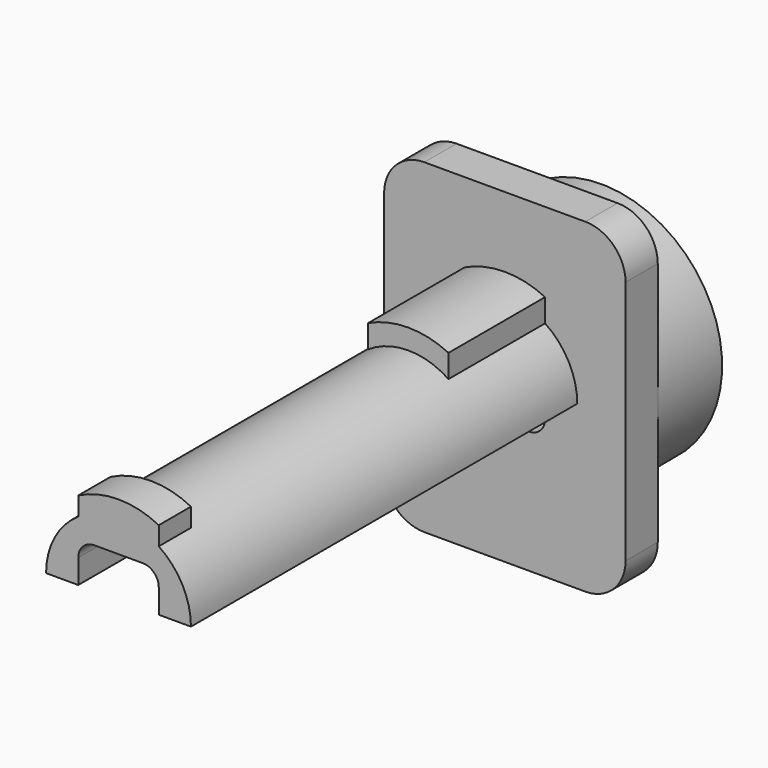
from build123d import *

# Parameters (mm, degrees)
F1_DEPTH = 55
F3_DEPTH = 5
F4_DEPTH = 5
F5_R     = 10
F6_DEPTH = 10
F7_DEPTH = 15


with BuildPart() as f1:
    # F0 (on Front) → F1 (new body)
    with BuildSketch(Plane.XZ):
        with BuildLine():
            Line((5, 0), (9, 0))
            ThreePointArc((9, 0), (7.9372539332, 4.2426406871), (5, 7.4833147735))
            Line((5, 7.4833147735), (5, 3.0001575886))
            Line((5, 3.0001575886), (5, 0))
        make_face()
        with BuildLine():
            Line((5, 3.0001575886), (5, 7.4833147735))
            ThreePointArc((5, 7.4833147735), (0, 9), (-5, 7.4833147735))
            Line((-5, 7.4833147735), (-5, 3.0001575886))
            ThreePointArc((-5, 3.0001575886), (-4.4142135624, 4.414371151), (-3, 5.0001575886))
            Line((-3, 5.0001575886), (3, 5.0001575886))
            ThreePointArc((3, 5.0001575886), (4.4142135624, 4.414371151), (5, 3.0001575886))
        make_face()
        with BuildLine():
            Line((-5, 3.0001575886), (-5, 7.4833147735))
            ThreePointArc((-5, 7.4833147735), (-7.9372539332, 4.2426406871), (-9, 0))
            Line((-9, 0), (-5, 0))
            Line((-5, 0), (-5, 3.0001575886))
        make_face()
        with BuildLine():
            Line((5, 3.0001575886), (5, 7.4833147735))
            ThreePointArc((5, 7.4833147735), (0, 9), (-5, 7.4833147735))
            Line((-5, 7.4833147735), (-5, 3.0001575886))
            ThreePointArc((-5, 3.0001575886), (-4.4142135624, 4.414371151), (-3, 5.0001575886))
            Line((-3, 5.0001575886), (3, 5.0001575886))
            ThreePointArc((3, 5.0001575886), (4.4142135624, 4.414371151), (5, 3.0001575886))
        make_face()
    extrude(amount=F1_DEPTH)

    # F2 (on face) → F3 (join)
    with BuildSketch(Plane.XZ.offset(55)):
        with BuildLine():
            Line((-5, 0), (-5, 3.0001575886))
            Line((-5, 3.0001575886), (-5, 7.4833147735))
            ThreePointArc((-5, 7.4833147735), (-7.9372539332, 4.2426406871), (-9, 0))
            Line((-9, 0), (-5, 0))
        make_face()
        with BuildLine():
            Line((-5, 7.4833147735), (-5, 3.0001575886))
            ThreePointArc((-5, 3.0001575886), (-4.4142135624, 4.414371151), (-3, 5.0001575886))
            Line((-3, 5.0001575886), (3, 5.0001575886))
            ThreePointArc((3, 5.0001575886), (4.4142135624, 4.414371151), (5, 3.0001575886))
            Line((5, 3.0001575886), (5, 7.4833147735))
            ThreePointArc((5, 7.4833147735), (0, 9), (-5, 7.4833147735))
        make_face()
        with BuildLine():
            Line((-5, 9.7981165597), (-5, 7.4833147735))
            ThreePointArc((-5, 7.4833147735), (0, 9), (5, 7.4833147735))
            Line((5, 7.4833147735), (5, 9.7981165597))
            ThreePointArc((5, 9.7981165597), (0, 11.0001403681), (-5, 9.7981165597))
        make_face()
        with BuildLine():
            Line((5, 7.4833147735), (5, 3.0001575886))
            Line((5, 3.0001575886), (5, 0))
            Line((5, 0), (9, 0))
            ThreePointArc((9, 0), (7.9372539332, 4.2426406871), (5, 7.4833147735))
        make_face()
    extrude(amount=F3_DEPTH)



with BuildPart() as f4:
    # F0 (on Front) → F4 (new body)
    with BuildSketch(Plane.XZ):
        with BuildLine():
            Line((-10, -20.2321839634), (10, -20.2321839634))
            ThreePointArc((10, -20.2321839634), (13.5355339059, -18.7677178693), (15, -15.2321839634))
            Line((15, -15.2321839634), (15, 15.2321839634))
            ThreePointArc((15, 15.2321839634), (13.5355339059, 18.7677178693), (10, 20.2321839634))
            Line((10, 20.2321839634), (-10, 20.2321839634))
            ThreePointArc((-10, 20.2321839634), (-13.5355339059, 18.7677178693), (-15, 15.2321839634))
            Line((-15, 15.2321839634), (-15, -15.2321839634))
            ThreePointArc((-15, -15.2321839634), (-13.5355339059, -18.7677178693), (-10, -20.2321839634))
        make_face()
        with BuildLine():
            ThreePointArc((5, 7.4833147735), (7.9372539332, 4.2426406871), (9, 0))
            Line((9, 0), (5, 0))
            Line((5, 0), (5, -3.0001575886))
            ThreePointArc((5, -3.0001575886), (4.4142135624, -4.414371151), (3, -5.0001575886))
            Line((3, -5.0001575886), (-3, -5.0001575886))
            ThreePointArc((-3, -5.0001575886), (-4.4142135624, -4.414371151), (-5, -3.0001575886))
            Line((-5, -3.0001575886), (-5, 0))
            Line((-5, 0), (-9, 0))
            ThreePointArc((-9, 0), (-7.9372539332, 4.2426406871), (-5, 7.4833147735))
            Line((-5, 7.4833147735), (-5, 10.3561575886))
            ThreePointArc((-5, 10.3561575886), (0, 11.5), (5, 10.3561575886))
            Line((5, 10.3561575886), (5, 7.4833147735))
        make_face(mode=Mode.SUBTRACT)
        with BuildLine():
            Line((5, 0), (9, 0))
            ThreePointArc((9, 0), (7.9372539332, 4.2426406871), (5, 7.4833147735))
            Line((5, 7.4833147735), (5, 3.0001575886))
            Line((5, 3.0001575886), (5, 0))
        make_face()
        with BuildLine():
            Line((5, 3.0001575886), (5, 7.4833147735))
            ThreePointArc((5, 7.4833147735), (0, 9), (-5, 7.4833147735))
            Line((-5, 7.4833147735), (-5, 3.0001575886))
            ThreePointArc((-5, 3.0001575886), (-4.4142135624, 4.414371151), (-3, 5.0001575886))
            Line((-3, 5.0001575886), (3, 5.0001575886))
            ThreePointArc((3, 5.0001575886), (4.4142135624, 4.414371151), (5, 3.0001575886))
        make_face()
        with BuildLine():
            Line((-5, 3.0001575886), (-5, 7.4833147735))
            ThreePointArc((-5, 7.4833147735), (-7.9372539332, 4.2426406871), (-9, 0))
            Line((-9, 0), (-5, 0))
            Line((-5, 0), (-5, 3.0001575886))
        make_face()
        with BuildLine():
            ThreePointArc((-5, 7.4833147735), (0, 9), (5, 7.4833147735))
            Line((5, 7.4833147735), (5, 10.3561575886))
            ThreePointArc((5, 10.3561575886), (0, 11.5), (-5, 10.3561575886))
            Line((-5, 10.3561575886), (-5, 7.4833147735))
        make_face()
    extrude(amount=-F4_DEPTH)

    # F5 (on face) → F6 (join)
    with BuildSketch(Plane(origin=(0, 5, 0), x_dir=(-1, 0, 0), z_dir=(0, 1, 0))):
        with BuildLine():
            ThreePointArc((-15, 3.9e-09), (-1.9e-09, -15), (15, 0))
            ThreePointArc((15, 0), (1.9e-09, 15), (-15, 3.9e-09))
        make_face()
        Circle(F5_R, mode=Mode.SUBTRACT)
    extrude(amount=F6_DEPTH)


with BuildPart() as f1_1:
    add(f1.part)

    add(f4.part)  # F7 merges F4
    # F0 (on Front) → F7 (join)
    with BuildSketch(Plane.XZ):
        with BuildLine():
            ThreePointArc((-5, 7.4833147735), (0, 9), (5, 7.4833147735))
            Line((5, 7.4833147735), (5, 10.3561575886))
            ThreePointArc((5, 10.3561575886), (0, 11.5), (-5, 10.3561575886))
            Line((-5, 10.3561575886), (-5, 7.4833147735))
        make_face()
    extrude(amount=F7_DEPTH)


solid = f1_1.part
